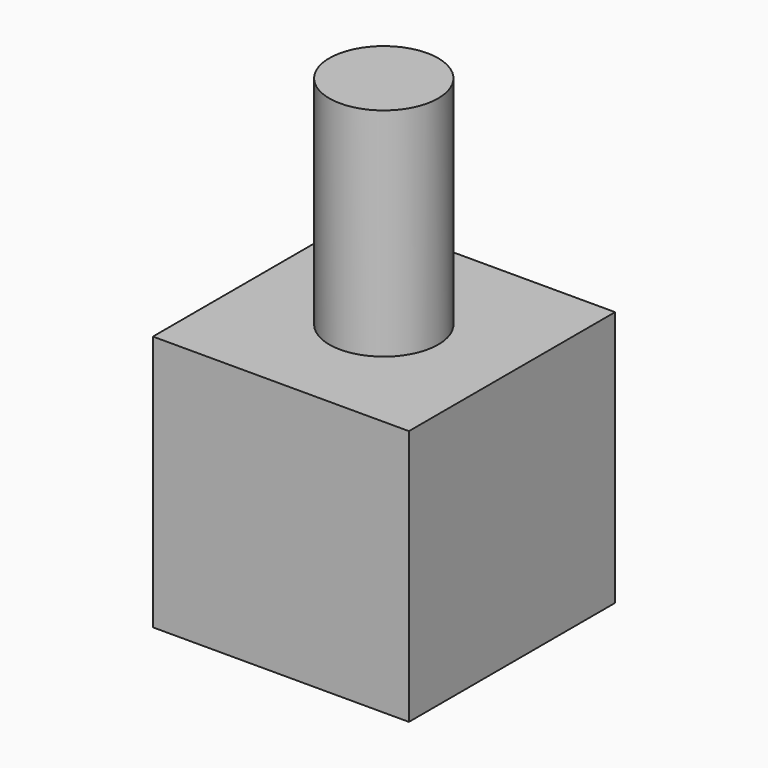
from build123d import *

# Parameters (mm, degrees)
F0_W     = 30
F0_H     = 30
F1_DEPTH = 30.2
F2_R     = 6.381152
F3_DEPTH = 25.4


with BuildPart() as f1:
    # F0 (on Front) → F1 (new body)
    with BuildSketch(Plane.XZ):
        Rectangle(F0_W, F0_H)
    extrude(amount=F1_DEPTH)

    # F2 (on face) → F3 (join)
    with BuildSketch(Plane.XY.offset(15)):
        with Locations((0, -15.135943)):
            Circle(F2_R)
    extrude(amount=F3_DEPTH)


solid = f1.part
